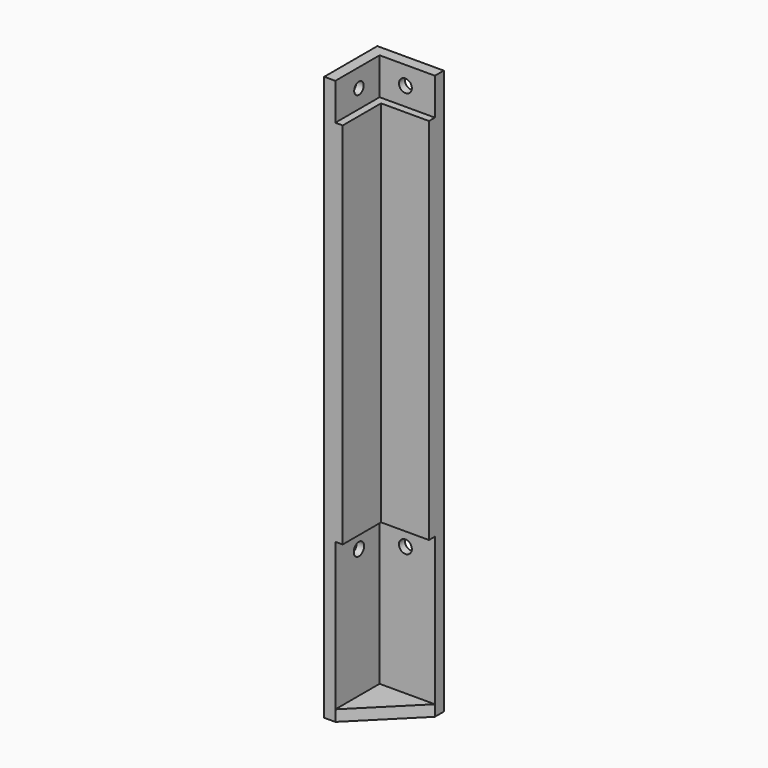
from build123d import *

# Parameters (mm, degrees)
PAD020_DEPTH            = 100
PAD023_DEPTH            = 10
SKETCH059_R             = 1.6
POCKET039_DEPTH         = 5
SKETCH060_R             = 3.5
POCKET035_DEPTH         = 1
SKETCH061_R             = 1.75
POCKET036_DEPTH         = 5
SKETCH062_R             = 3.5
POCKET037_DEPTH         = 1
PAD021_DEPTH            = 40
PAD022_DEPTH            = 3
SKETCH055_R             = 1.75
POCKET038_DEPTH         = 5
SKETCH066_R             = 3.5
POCKET042_DEPTH         = 1
SKETCH064_R             = 1.75
POCKET040_DEPTH         = 5
SKETCH065_R             = 3.5
POCKET041_DEPTH         = 1
BODY007_PLACEMENT_ANGLE = 90


with BuildPart() as part:
    # Sketch056 → Pad020 (new body)
    with BuildSketch(Plane.XY):
        Polygon((-53, -35), (-53, -53), (-35, -53), (-35, -48), (-48, -48), (-48, -35), align=None)
    extrude(amount=PAD020_DEPTH)

    # Sketch058 (on Face8 of Pad020) → Pad023 (join)
    with BuildSketch(Plane.XY.offset(100)):
        Polygon((-53, -35), (-53, -53), (-35, -53), (-35, -50), (-50, -50), (-50, -35), align=None)
    extrude(amount=PAD023_DEPTH)

    # Sketch059 (on Face14 of Pad023) → Pocket039 (cut)
    with BuildSketch(Plane.XZ.offset(53)):
        with Locations((-43, 105)):
            Circle(SKETCH059_R)
    extrude(amount=-POCKET039_DEPTH, mode=Mode.SUBTRACT)

    # Sketch060 (on Face14 of Pocket039) → Pocket035 (cut)
    with BuildSketch(Plane.XZ.offset(53)):
        with Locations((-43, 105)):
            Circle(SKETCH060_R)
    extrude(amount=-POCKET035_DEPTH, mode=Mode.SUBTRACT)

    # Sketch061 (on Face9 of Pocket035) → Pocket036 (cut)
    with BuildSketch(Plane(origin=(-53, 0, 0), x_dir=(0, -1, 0), z_dir=(-1, 0, 0))):
        with Locations((43, 105)):
            Circle(SKETCH061_R)
    extrude(amount=-POCKET036_DEPTH, mode=Mode.SUBTRACT)

    # Sketch062 (on Face9 of Pocket036) → Pocket037 (cut)
    with BuildSketch(Plane(origin=(-53, 0, 0), x_dir=(0, -1, 0), z_dir=(-1, 0, 0))):
        with Locations((43, 105)):
            Circle(SKETCH062_R)
    extrude(amount=-POCKET037_DEPTH, mode=Mode.SUBTRACT)

    # Sketch057 (on Face4 of Pocket037) → Pad021 (join)
    with BuildSketch(Plane(origin=(0, 0, 0), x_dir=(1, 0, 0), z_dir=(0, 0, -1))):
        Polygon((-35, 53), (-53, 53), (-53, 35), (-50, 35), (-50, 50), (-35, 50), align=None)
    extrude(amount=PAD021_DEPTH)

    # Sketch063 (on Face15 of Pad021) → Pad022 (join)
    with BuildSketch(Plane(origin=(0, 0, -40), x_dir=(1, 0, 0), z_dir=(0, 0, -1))):
        Polygon((-35, 50), (-35, 53), (-53, 53), (-53, 35), (-50, 35), align=None)
    extrude(amount=PAD022_DEPTH)

    # Sketch055 (on Face10 of Pad022) → Pocket038 (cut)
    with BuildSketch(Plane(origin=(-53, 0, 0), x_dir=(0, -1, 0), z_dir=(-1, 0, 0))):
        with Locations((43, -5)):
            Circle(SKETCH055_R)
    extrude(amount=-POCKET038_DEPTH, mode=Mode.SUBTRACT)

    # Sketch066 (on Face10 of Pocket038) → Pocket042 (cut)
    with BuildSketch(Plane(origin=(-53, 0, 0), x_dir=(0, -1, 0), z_dir=(-1, 0, 0))):
        with Locations((43, -5)):
            Circle(SKETCH066_R)
    extrude(amount=-POCKET042_DEPTH, mode=Mode.SUBTRACT)

    # Sketch064 (on Face19 of Pocket042) → Pocket040 (cut)
    with BuildSketch(Plane.XZ.offset(53)):
        with Locations((-43, -5)):
            Circle(SKETCH064_R)
    extrude(amount=-POCKET040_DEPTH, mode=Mode.SUBTRACT)

    # Sketch065 (on Face19 of Pocket040) → Pocket041 (cut)
    with BuildSketch(Plane.XZ.offset(53)):
        with Locations((-43, -5)):
            Circle(SKETCH065_R)
    extrude(amount=-POCKET041_DEPTH, mode=Mode.SUBTRACT)


with BuildPart() as part_1:
    # Body007 placement: moved
    add(part.part.rotate(Axis((0, 0, 0), (0, 0, -1)), BODY007_PLACEMENT_ANGLE))


solid = part_1.part
